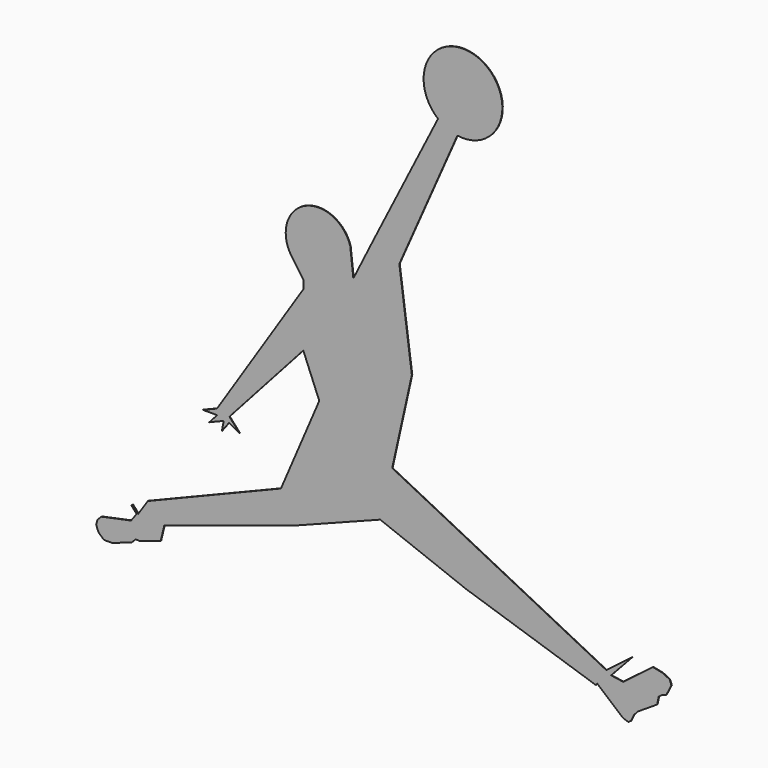
from build123d import *

# Parameters (mm, degrees)
F1_DEPTH = 0.1016


with BuildPart() as f1:
    # F0 (on Front) → F1 (new body)
    with BuildSketch(Plane.XZ):
        with BuildLine():
            Line((-27.597211, 44.903267), (-16.479452, 70.147198))
            ThreePointArc((-16.479452, 70.147198), (-12.374739, 84.52682), (-20.190171, 71.777654))
            Line((-20.190171, 71.777654), (-32.455881, 47.516349))
            Line((-32.455881, 47.516349), (-36.409063, 39.585446))
            Line((-36.409063, 39.585446), (-37.003676, 44.853162))
            ThreePointArc((-37.003676, 44.853162), (-45.812208, 48.744855), (-48.202469, 39.416288))
            Line((-48.202469, 39.416288), (-45.996727, 36.307979))
            Line((-45.996727, 36.307979), (-45.996727, 34.629516))
            Line((-45.996727, 34.629516), (-62.530493, 9.143647))
            Line((-62.530493, 9.143647), (-65.22241, 8.045318))
            Line((-65.22241, 8.045318), (-62.496687, 8.045318))
            Line((-62.496687, 8.045318), (-64.015839, 6.35186))
            Line((-64.015839, 6.35186), (-61.240718, 7.484136))
            Line((-61.240718, 7.484136), (-61.588106, 5.666984))
            Line((-61.588106, 5.666984), (-60.225245, 7.484136))
            Line((-60.225245, 7.484136), (-58.221032, 6.415227))
            Line((-58.221032, 6.415227), (-60.150974, 8.558666))
            Line((-60.150974, 8.558666), (-45.996727, 24.318161))
            Line((-45.996727, 24.318161), (-42.934585, 16.81309))
            Line((-42.934585, 16.81309), (-50.282562, -0.35334))
            Line((-50.282562, -0.35334), (-75.780107, -10.756587))
            Line((-75.780107, -10.756587), (-77.605059, -13.503619))
            Line((-77.605059, -13.503619), (-78.685749, -12.299429))
            Line((-78.685749, -12.299429), (-78.932173, -12.52058))
            Line((-78.932173, -12.52058), (-77.920039, -13.648378))
            Line((-77.920039, -13.648378), (-78.990005, -15.094273))
            Line((-78.990005, -15.094273), (-84.657902, -16.279914))
            Line((-84.657902, -16.279914), (-85.409781, -17.002857))
            Line((-85.409781, -17.002857), (-85.665536, -17.991863))
            Line((-85.665536, -17.991863), (-85.24725, -19.075117))
            Line((-85.24725, -19.075117), (-84.194157, -20.044553))
            Line((-84.194157, -20.044553), (-82.593664, -20.044553))
            Line((-82.593664, -20.044553), (-78.867366, -18.738427))
            Line((-78.867366, -18.738427), (-78.142378, -17.991863))
            Line((-78.142378, -17.991863), (-77.226447, -17.991863))
            Line((-77.226447, -17.991863), (-73.296145, -16.653887))
            Line((-73.296145, -16.653887), (-72.633486, -13.899994))
            Line((-72.633486, -13.899994), (-47.725662, -5.773766))
            Line((-47.725662, -5.773766), (-31.267139, 0.581509))
            Line((-31.267139, 0.581509), (-14.808616, -5.773766))
            Line((-14.808616, -5.773766), (10.099208, -13.899994))
            Line((10.099208, -13.899994), (10.288244, -13.526085))
            Line((10.288244, -13.526085), (15.264525, -17.756557))
            Line((15.264525, -17.756557), (16.256658, -18.073414))
            Line((16.256658, -18.073414), (16.749747, -17.756557))
            Line((16.749747, -17.756557), (17.384027, -16.501966))
            Line((17.384027, -16.501966), (18.01461, -15.767534))
            Line((18.01461, -15.767534), (21.78895, -13.342156))
            Line((21.78895, -13.342156), (22.077624, -11.93911))
            Line((22.077624, -11.93911), (22.800155, -11.38717))
            Line((22.800155, -11.38717), (23.532852, -11.161827))
            Line((23.532852, -11.161827), (24.509403, -9.23023))
            Line((24.509403, -9.23023), (24.185421, -8.347659))
            Line((24.185421, -8.347659), (22.837113, -7.665999))
            Line((22.837113, -7.665999), (20.949248, -7.292216))
            Line((20.949248, -7.292216), (15.264525, -11.63476))
            Line((15.264525, -11.63476), (12.963889, -11.292499))
            Line((12.963889, -11.292499), (17.03156, -6.907146))
            Line((17.03156, -6.907146), (12.048159, -10.713952))
            Line((12.048159, -10.713952), (-28.96514, 10.02101))
            Line((-28.96514, 10.02101), (-25.203327, 26.949166))
            Line((-25.203327, 26.949166), (-27.597211, 44.903267))
        make_face()
    extrude(amount=F1_DEPTH)


solid = f1.part
